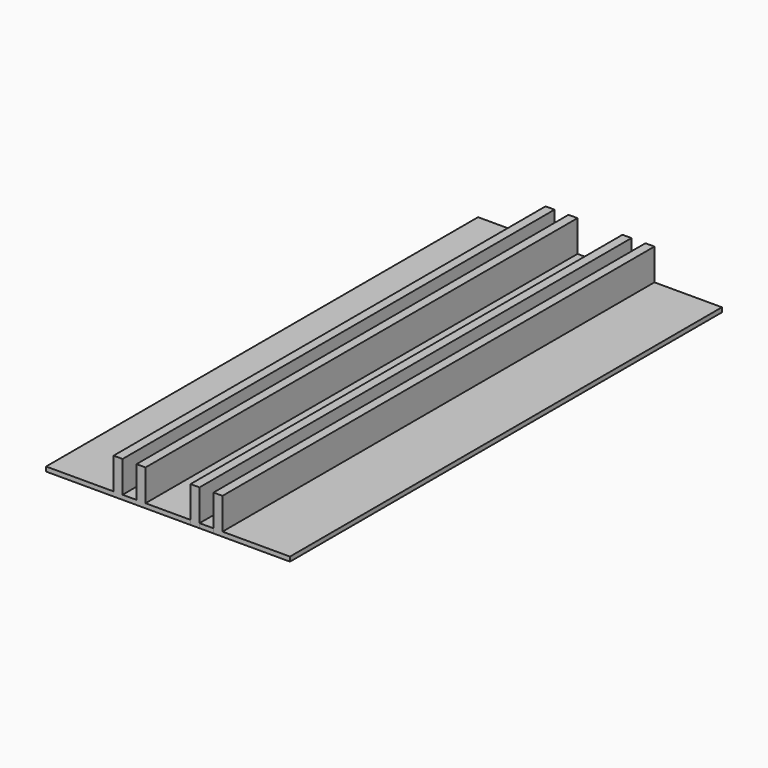
from build123d import *

# Parameters (mm, degrees)
F0_W     = 3.1
F0_H     = 120
F1_DEPTH = 1
F0_W_2   = 10
F0_W_3   = 15
F0_H_2   = 119.9958917713
F0_W_4   = 2
F2_DEPTH = 8


with BuildPart() as f1:
    # F0 (on Top) → F1 (new body)
    with BuildSketch(Plane.XY):
        with Locations((-1.55, -15.0552866608)):
            Rectangle(F0_W, F0_H)
    extrude(amount=F1_DEPTH)



with BuildPart() as f1b:
    # F0 (on Top) → F1, piece 2 (new body)
    with BuildSketch(Plane.XY):
        with Locations((7, -15.0552866608)):
            Rectangle(F0_W_2, F0_H)
    extrude(amount=F1_DEPTH)


with BuildPart() as f1c:
    # F0 (on Top) → F1, piece 3 (new body)
    with BuildSketch(Plane.XY):
        with Locations((-12.6, -15.0552866608)):
            Rectangle(F0_W_3, F0_H)
    extrude(amount=F1_DEPTH)


with BuildPart() as f1d:
    # F0 (on Top) → F1, piece 4 (new body)
    with BuildSketch(Plane.XY):
        with Locations((26.6, -15.0532325464)):
            Rectangle(F0_W_3, F0_H_2)
    extrude(amount=F1_DEPTH)


with BuildPart() as f1e:
    # F0 (on Top) → F1, piece 5 (new body)
    with BuildSketch(Plane.XY):
        Polygon((17.1, 44.9447133392), (14, 44.9447133392), (14, -75.0468607033), (17.1, -75.0511784321), align=None)
    extrude(amount=F1_DEPTH)


with BuildPart() as f1_1:
    add(f1.part)

    add(f1b.part)  # F2 merges F1b

    add(f1c.part)  # F2 merges F1c

    add(f1d.part)  # F2 merges F1d

    add(f1e.part)  # F2 merges F1e
    # F0 (on Top) → F2 (join)
    with BuildSketch(Plane.XY):
        with Locations((-4.1, -15.0552866608)):
            Rectangle(F0_W_4, F0_H)
        with Locations((1, -15.0552866608)):
            Rectangle(F0_W_4, F0_H)
        Polygon((14, 44.9447133392), (12, 44.9447133392), (12, -75.0552866608), (14, -75.0468607033), align=None)
        with Locations((18.1, -15.0532325464)):
            Rectangle(F0_W_4, F0_H_2)
    extrude(amount=F2_DEPTH)


solid = f1_1.part
